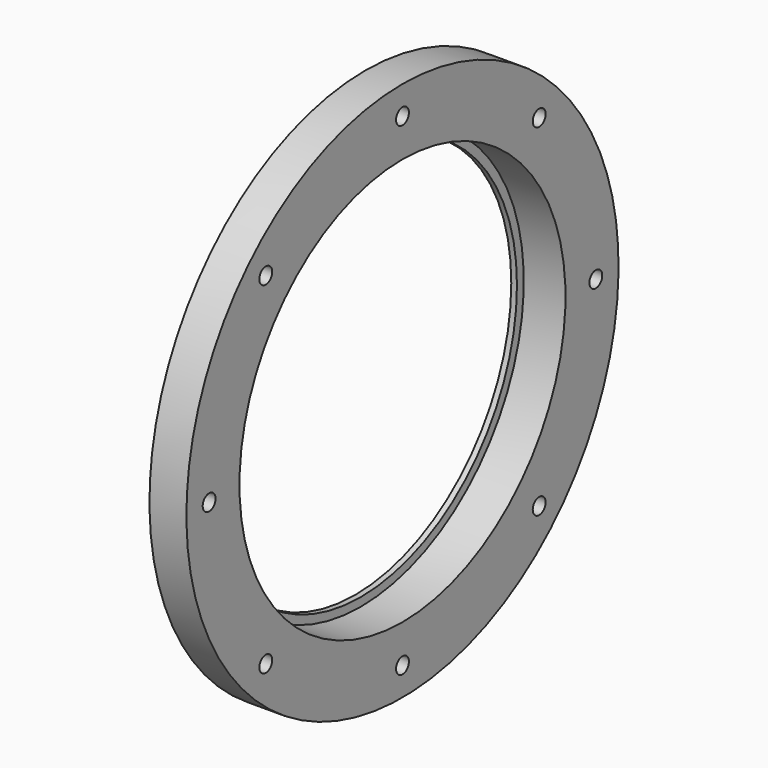
from build123d import *

# Parameters (mm, degrees)
F3_D     = 8.5
F3_DEPTH = 49.5
F3_TIP   = 2.5536576309


with BuildPart() as f1:
    # F0 (on Front) → F1 (revolve)
    with BuildSketch(Plane.XZ):
        Polygon((5.5, 115), (0, 115), (0, 107.5), (0, 103), (3, 103), (3, 107.5), (25, 107.5), (25, 142.5), (5.5, 142.5), align=None)
    revolve(axis=Axis((120.2051416039, 0, 0), (1, 0, 0)))

    # F3
    with Locations(Plane.YZ.offset(25)):
        with Locations((0, 127.5), (90.1561146013, 90.1561146013), (127.5, 0), (90.1561146013, -90.1561146013), (0, -127.5), (-90.1561146013, -90.1561146013), (-127.5, 0), (-90.1561146013, 90.1561146013)):
            Hole(F3_D / 2, depth=F3_DEPTH)
            with Locations((0, 0, -(F3_DEPTH + F3_TIP / 2))):  # 118° drill point
                Cone(0, F3_D / 2, F3_TIP, mode=Mode.SUBTRACT)


solid = f1.part
